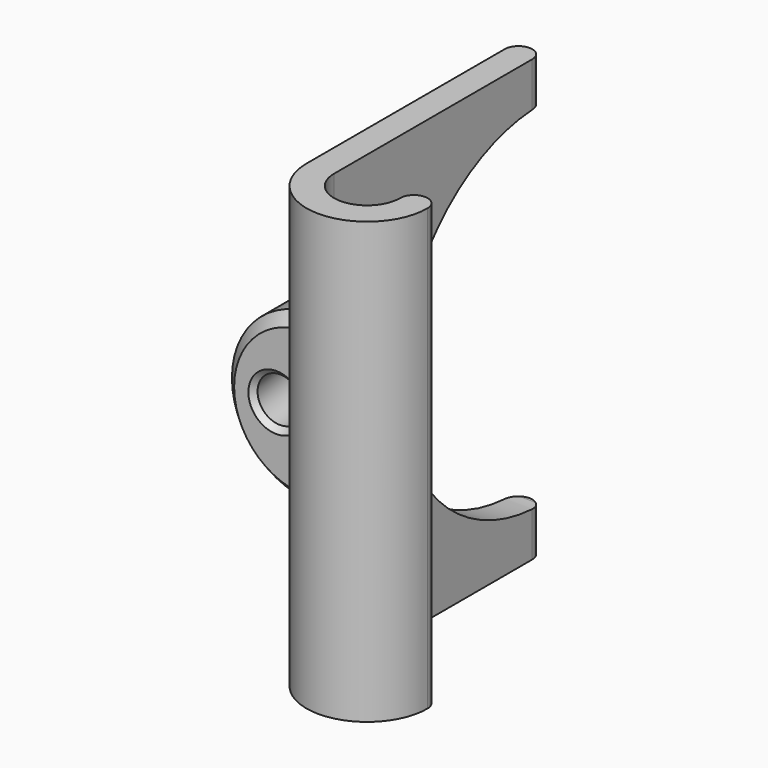
from build123d import *

# Parameters (mm, degrees)
PAD_DEPTH       = 40
PAD001_DEPTH    = 15
POCKET_DEPTH    = 20.151
SKETCH003_R     = 4.05
POCKET001_DEPTH = 14
CHAMFER_SIZE    = 2
CHAMFER001_SIZE = 2
CHAMFER002_SIZE = 1


with BuildPart() as part:
    # Sketch → Pad (new body, symmetric)
    with BuildSketch(Plane.XY):
        with BuildLine():
            Line((-11, 45), (-11, 0))
            ThreePointArc((-11, 0), (0, -11), (11, 0))
            ThreePointArc((11, 0), (8.5, 2.5), (6, 0))
            ThreePointArc((-6, 0), (0, -6), (6, 0))
            Line((-6, 0), (-6, 45))
            ThreePointArc((-6, 45), (-8.5, 47.5), (-11, 45))
        make_face()
    extrude(amount=PAD_DEPTH, both=True)

    # Sketch001 → Pad001 (join)
    with BuildSketch(Plane.XZ):
        with BuildLine():
            ThreePointArc((-11, 15.15), (-26.15, 0), (-11, -15.15))
            Line((-11, 15.15), (-11, -15.15))
        make_face()
    extrude(amount=-PAD001_DEPTH)

    # Sketch002 (on Face1 of Pad001) → Pocket (cut, through all)
    with BuildSketch(Plane.YZ.offset(-6)):
        with BuildLine():
            Line((108.94, 32), (47, 32))
            ThreePointArc((47, 32), (15, 0), (47, -32))
            Line((47, -32), (108.94, -32))
            Line((108.94, -32), (108.94, 32))
        make_face()
    extrude(amount=-POCKET_DEPTH, mode=Mode.SUBTRACT)

    # Sketch003 (on DatumPlane) → Pocket001 (cut)
    with BuildSketch(Plane(origin=(-3.316026, 0, 0), x_dir=(0.992546, 0.121869, 0), z_dir=(-0.121869, 0.992546, 0))):
        with Locations((-13.070263, 0)):
            Circle(SKETCH003_R)
    extrude(amount=POCKET001_DEPTH, mode=Mode.SUBTRACT)

    # Chamfer
    chamfer_edges = [part.edges().sort_by_distance(p)[0] for p in [
        (-21.712668, 15, -10.712668),
    ]]
    chamfer(chamfer_edges, length=CHAMFER_SIZE)

    # Chamfer001
    chamfer001_edges = [part.edges().sort_by_distance(p)[0] for p in [
        (-26.15, 0, 0),
    ]]
    chamfer(chamfer001_edges, length=CHAMFER001_SIZE)

    # Chamfer002
    chamfer002_edges = [part.edges().sort_by_distance(p)[0] for p in [
        (-20.564859, 0, 0),
    ]]
    chamfer(chamfer002_edges, length=CHAMFER002_SIZE)


solid = part.part
